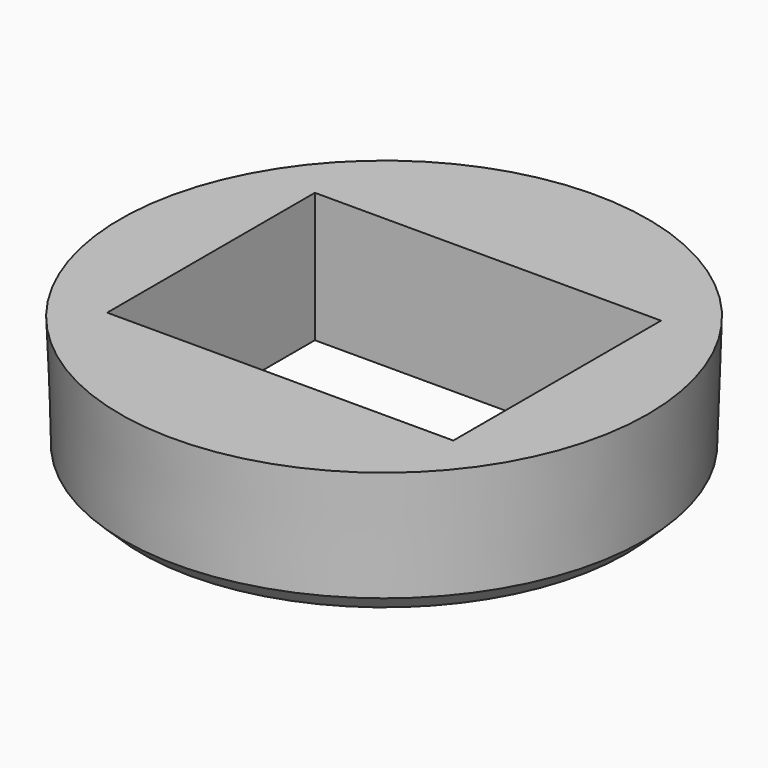
from build123d import *

# Parameters (mm, degrees)
CHAMFER_SIZE = 2
SKETCH001_W  = 40
SKETCH001_H  = 30
POCKET_DEPTH = 15.001


with BuildPart() as part:
    # Sketch → Revolution (revolve)
    with BuildSketch(Plane.XZ):
        Polygon((0, 0), (30, 0), (30.5, 15), (0, 15), align=None)
    revolve(axis=Axis((0, 0, 0), (0, 0, 1)))

    # Chamfer
    chamfer_edges = [part.edges().sort_by_distance(p)[0] for p in [
        (-30, 0, 0),
    ]]
    chamfer(chamfer_edges, length=CHAMFER_SIZE)

    # Sketch001 (on Face4 of Chamfer) → Pocket (cut, through all)
    with BuildSketch(Plane(origin=(0, 0, 15), x_dir=(-1, 0, 0), z_dir=(0, 0, 1))):
        Rectangle(SKETCH001_W, SKETCH001_H)
    extrude(amount=-POCKET_DEPTH, mode=Mode.SUBTRACT)


solid = part.part
